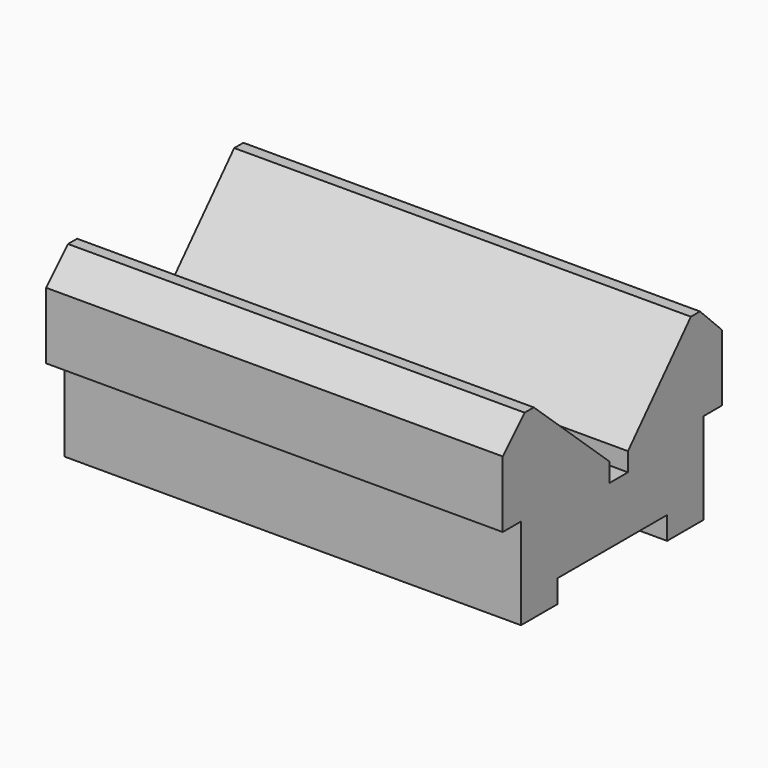
from build123d import *

# Parameters (mm, degrees)
F1_DEPTH = 100


with BuildPart() as f1:
    # F0 (on Right) → F1 (new body)
    with BuildSketch(Plane.YZ):
        Polygon((0, 34.577776), (0, 20), (5, 20), (5, 0), (15, 0), (15, 5), (45, 5), (45, 0), (55, 0), (55, 20), (60, 20), (60, 34.577776), (54, 40.577776), (51.5, 40.577776), (34.284288, 21.661742), (34.284288, 17.577776), (29.284288, 17.577776), (29.284288, 21.661742), (8.5, 40.577776), (6, 40.577776), align=None)
    extrude(amount=F1_DEPTH)


solid = f1.part
